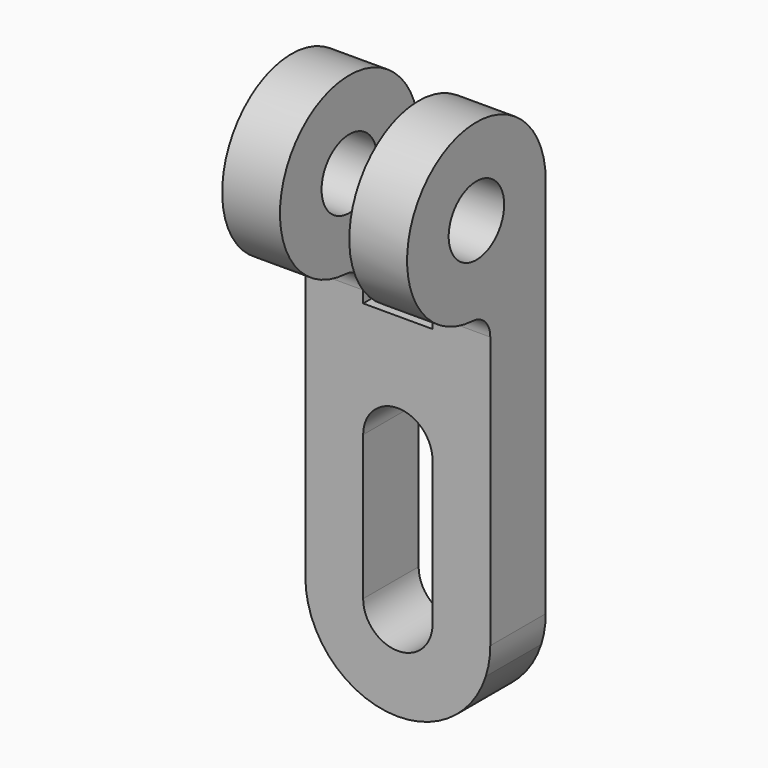
from build123d import *

# Parameters (mm, degrees)
F0_R     = 6
F1_DEPTH = 32
F2_W     = 12
F2_H     = 15
F2_H_2   = 2.026334039
F3_DEPTH = 30.001


with BuildPart() as f1:
    # F0 (on Right) → F1 (new body)
    with BuildSketch(Plane.YZ):
        with BuildLine():
            Line((0, -46.4834831254), (0, 35.5165168746))
            ThreePointArc((0, 35.5165168746), (-25.3237080242, 46.3986606262), (-15.7894736842, 20.5373069054))
            ThreePointArc((-15.7894736842, 20.5373069054), (-13.0980949996, 19.29583972), (-12, 16.5428509136))
            Line((-12, 16.5428509136), (-12, -46.4834831254))
            Line((-12, -46.4834831254), (0, -46.4834831254))
        make_face()
        with Locations((-15, 35.5165168746)):
            Circle(F0_R, mode=Mode.SUBTRACT)
    extrude(amount=F1_DEPTH)

    # F2 (on Front) → F3 (cut, through all)
    with BuildSketch(Plane.XZ):
        Polygon((10, 16.5428509136), (22, 16.5428509136), (22, 35.5165168746), (10, 35.5165168746), (10, 20.5373069054), align=None)
        with Locations((16, 43.0165168746)):
            Rectangle(F2_W, F2_H)
        with Locations((16, 15.5296838941)):
            Rectangle(F2_W, F2_H_2)
        with BuildLine():
            Line((10, -5.4834831254), (10, -30.4834831254))
            ThreePointArc((10, -30.4834831254), (16, -36.4834831254), (22, -30.4834831254))
            Line((22, -30.4834831254), (22, -5.4834831254))
            ThreePointArc((22, -5.4834831254), (16, 0.5165168746), (10, -5.4834831254))
        make_face()
        with BuildLine():
            Line((16.0000000715, -46.4834831254), (32, -46.4834831254))
            Line((32, -46.4834831254), (32, -30.4834831254))
            ThreePointArc((32, -30.4834831254), (31.8046622717, -32.9760020276), (31.2234186903, -35.4076605573))
            ThreePointArc((31.2234186903, -35.4076605573), (25.4131068776, -43.4215439891), (16.0000000715, -46.4834831254))
        make_face()
        with BuildLine():
            Line((0, -46.4834831254), (16.0000000715, -46.4834831254))
            ThreePointArc((16.0000000715, -46.4834831254), (4.6862915263, -41.7971916497), (0, -30.4834831254))
            Line((0, -30.4834831254), (0, -46.4834831254))
        make_face()
    extrude(amount=F3_DEPTH, mode=Mode.SUBTRACT)


solid = f1.part
